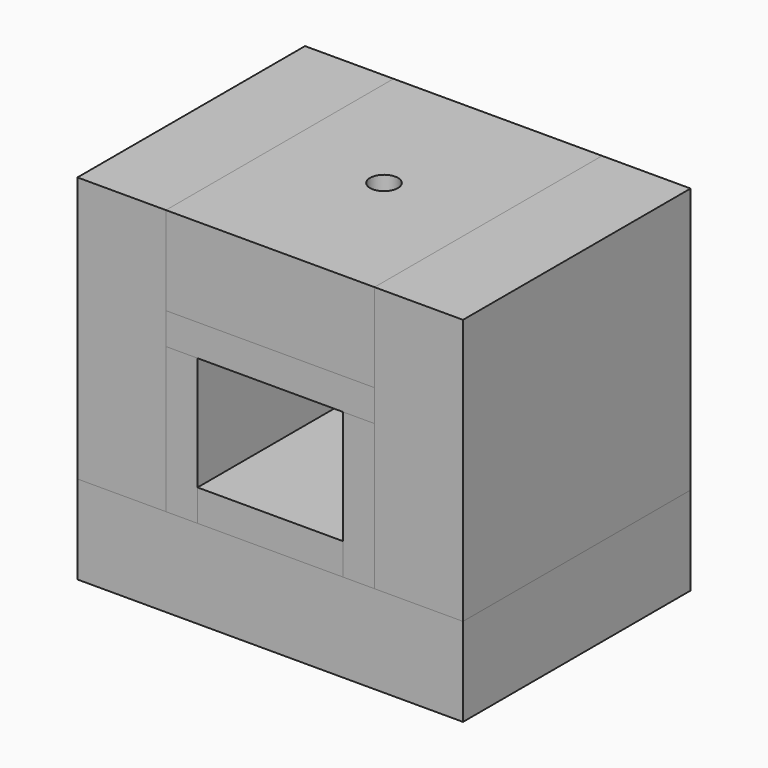
from build123d import *

# Parameters (mm, degrees)
F0_W      = 115
F0_H      = 25
F1_DEPTH  = 225
F2_W      = 25
F2_H      = 115
F3_DEPTH  = 225
F6_W      = 165
F6_H      = 25
F7_DEPTH  = 225
F8_W      = 305
F8_H      = 70
F9_DEPTH  = 225
F10_W     = 70
F10_H     = 210
F11_DEPTH = 225
F13_W     = 165
F13_H     = 70
F14_DEPTH = 225
F15_R     = 11
F16_DEPTH = 95


with BuildPart() as f1:
    # F0 (on Front) → F1 (new body)
    with BuildSketch(Plane.XZ):
        with Locations((57.5, 12.5)):
            Rectangle(F0_W, F0_H)
    extrude(amount=-F1_DEPTH)


with BuildPart() as f3:
    # F2 (on Front) → F3 (new body, through all)
    with BuildSketch(Plane.XZ):
        with Locations((-12.5, 57.5)):
            Rectangle(F2_W, F2_H)
    extrude(amount=-F3_DEPTH)


with BuildPart() as f5_1:
    # F5: instance of F3
    add(f3.part.mirror(Plane(origin=(57.5, 112.5, 12.5), x_dir=(0, 1, 0), z_dir=(1, 0, 0))))


with BuildPart() as f7:
    # F6 (on Front) → F7 (new body, through all)
    with BuildSketch(Plane.XZ):
        with Locations((57.5, 127.5)):
            Rectangle(F6_W, F6_H)
    extrude(amount=-F7_DEPTH)


with BuildPart() as f9:
    # F8 (on Front) → F9 (new body, through all)
    with BuildSketch(Plane.XZ):
        with Locations((57.5, -35)):
            Rectangle(F8_W, F8_H)
    extrude(amount=-F9_DEPTH)


with BuildPart() as f11:
    # F10 (on Front) → F11 (new body, through all)
    with BuildSketch(Plane.XZ):
        with Locations((-60, 105)):
            Rectangle(F10_W, F10_H)
    extrude(amount=-F11_DEPTH)


with BuildPart() as f12_1:
    # F12: instance of F11
    add(f11.part.mirror(Plane(origin=(57.5, 112.5, 12.5), x_dir=(0, 1, 0), z_dir=(1, 0, 0))))


with BuildPart() as f14:
    # F13 (on Front) → F14 (new body, through all)
    with BuildSketch(Plane.XZ):
        with Locations((57.5, 175)):
            Rectangle(F13_W, F13_H)
    extrude(amount=-F14_DEPTH)


with BuildPart() as f16_tool:
    # F15 (on face) → F16 (new body, through all)
    with BuildSketch(Plane.XY.offset(210)):
        with Locations((57.5, 112.5)):
            Circle(F15_R)
    extrude(amount=-F16_DEPTH)


with BuildPart() as f7_1:
    add(f7.part)

    # F16: cut by f16_tool
    add(f16_tool.part, mode=Mode.SUBTRACT)


with BuildPart() as f14_1:
    add(f14.part)

    # F16: cut by f16_tool
    add(f16_tool.part, mode=Mode.SUBTRACT)


solid = Compound([f1.part, f3.part, f5_1.part, f9.part, f11.part, f12_1.part, f7_1.part, f14_1.part])
